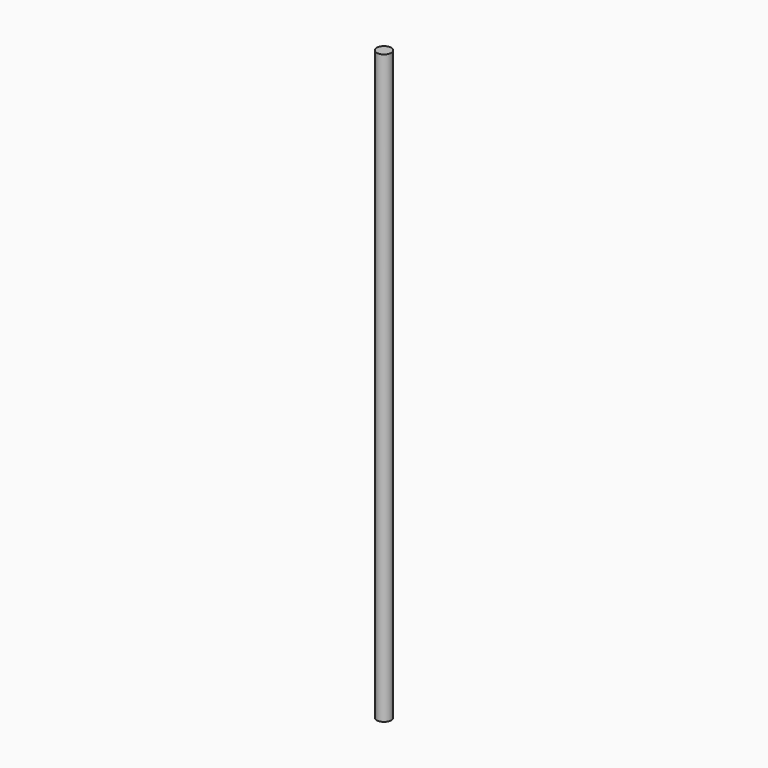
from build123d import *

# Parameters (mm, degrees)
CYLINDER_R     = 3.75
CYLINDER_DEPTH = 309


with BuildPart() as part:
    # Cylinder → Cylinder (new body)
    with BuildSketch(Plane.XY):
        Circle(CYLINDER_R)
    extrude(amount=CYLINDER_DEPTH)


solid = part.part
